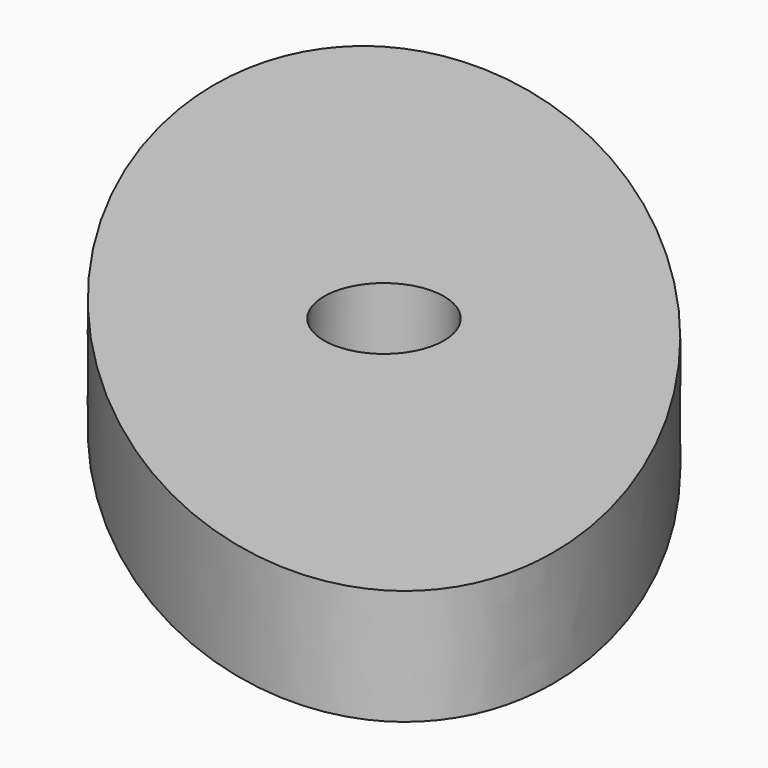
from build123d import *

# Parameters (mm, degrees)
F0_R     = 3.302
F1_DEPTH = 6.35


with BuildPart() as f1:
    # F0 (on Top) → F1 (new body)
    with BuildSketch(Plane.XY):
        with BuildLine():
            add(Edge.make_bspline(
                [(-16.784619, 17.199054), (-33.294538, 2.663148), (0.13735, -18.664917), (33.569239, -39.992981), (16.647269, -4.12901), (-0.274701, 31.734961), (-16.784619, 17.199054)],
                knots=[0, 0, 0, 2.094395, 2.094395, 4.18879, 4.18879, 6.283185, 6.283185, 6.283185], degree=2, weights=[1, 0.5, 1, 0.5, 1, 0.5, 1]))
        make_face()
        with Locations((0, -1.864958)):
            Circle(F0_R, mode=Mode.SUBTRACT)
    extrude(amount=F1_DEPTH)


solid = f1.part
